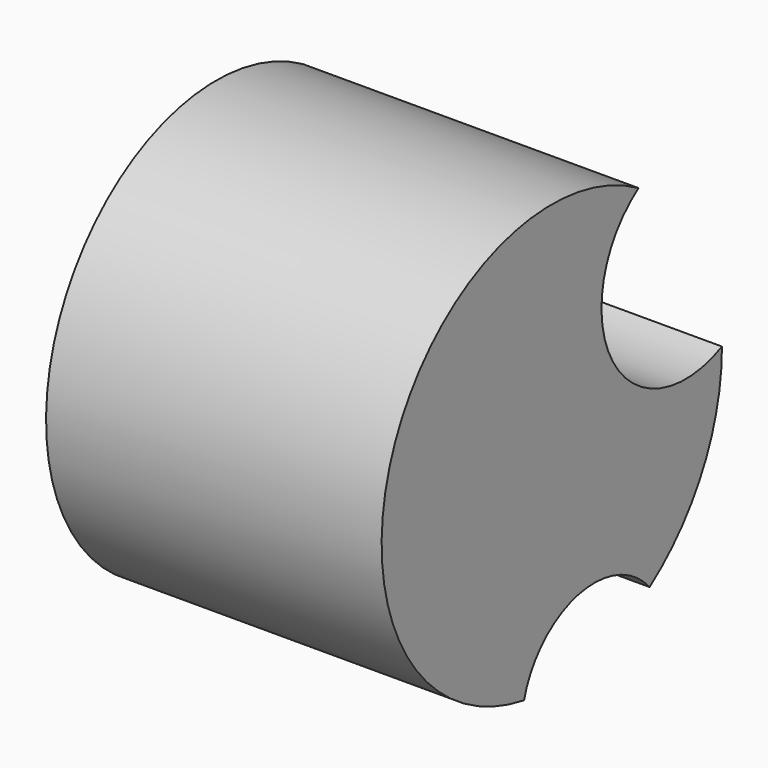
from build123d import *

# Parameters (mm, degrees)
F1_DEPTH = 76.2


with BuildPart() as f1:
    # F0 (on Right) → F1 (new body)
    with BuildSketch(Plane.YZ):
        with BuildLine():
            ThreePointArc((-50.8877843666, -26.1272218461), (-35.5301604305, -11.2844595025), (-15.2511948734, -17.9872770357))
            ThreePointArc((-15.2511948734, -17.9872770357), (-0.1647004468, -0.7373577806), (5.2721587586, 21.5247757733))
            ThreePointArc((5.2721587586, 21.5247757733), (5.2720026358, 21.6475777712), (5.2715342684, 21.7703789752))
            ThreePointArc((5.2715342684, 21.7703789752), (-25.7544503942, 31.4232390217), (-18.4018610728, 63.0733395213))
            ThreePointArc((-18.4018610728, 63.0733395213), (-88.4049130397, 38.0519285625), (-50.8877843666, -26.1272218461))
        make_face()
    extrude(amount=F1_DEPTH)


solid = f1.part
